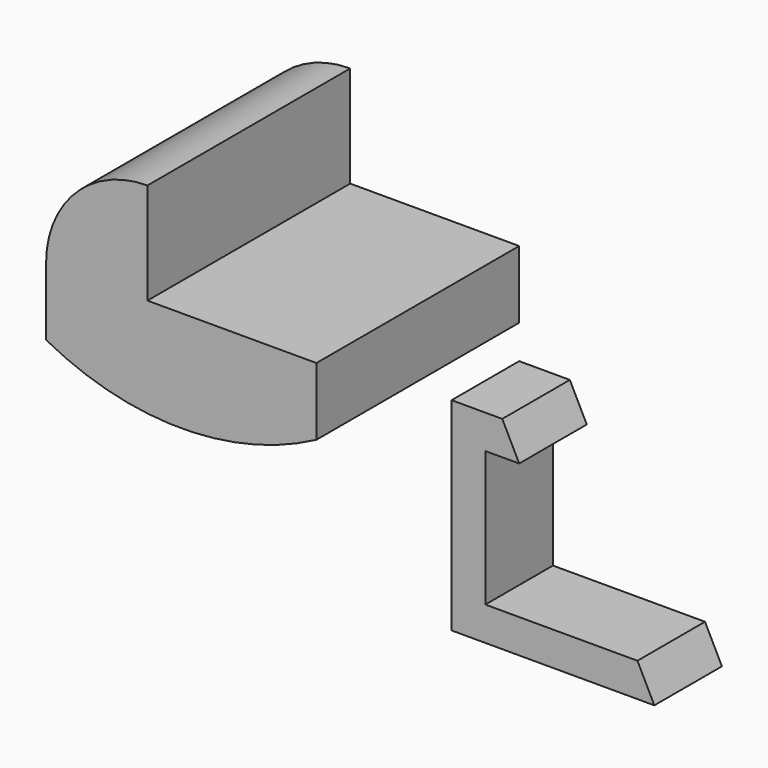
from build123d import *

# Parameters (mm, degrees)
F2_DEPTH = 50
F3_DEPTH = 25
F4_DEPTH = 25


with BuildPart() as f2:
    # F1 (on Front) → F2 (new body)
    with BuildSketch(Plane.XZ):
        with BuildLine():
            Line((0, 30), (-50, 30))
            Line((-50, 30), (-50, 60))
            ThreePointArc((-50, 60), (-71.213203, 51.213203), (-80, 30))
            Line((-80, 30), (-80, 10))
            ThreePointArc((-80, 10), (-40, 0), (0, 10))
            Line((0, 10), (0, 30))
        make_face()
    extrude(amount=F2_DEPTH)

    # F2_face (on face) → F4 (join)
    with BuildSketch(Plane(origin=(-45.644437, -50, 22.98515), x_dir=(1, 0, 0), z_dir=(0, -1, 0))):
        with BuildLine():
            Line((45.644437, -12.98515), (45.644437, 7.01485))
            Line((45.644437, 7.01485), (-4.355563, 7.01485))
            Line((-4.355563, 7.01485), (-4.355563, 37.01485))
            ThreePointArc((-4.355563, 37.01485), (-25.568766, 28.228053), (-34.355563, 7.01485))
            Line((-34.355563, 7.01485), (-34.355563, -12.98515))
            ThreePointArc((-34.355563, -12.98515), (5.644437, -22.98515), (45.644437, -12.98515))
        make_face()
    extrude(amount=F4_DEPTH)


with BuildPart() as f3:
    # F0 (on Front) → F3 (new body)
    with BuildSketch(Plane.XZ):
        Polygon((15, 0), (0, 0), (0, -60), (60, -60), (55, -50), (10, -50), (10, -10), (20, -10), align=None)
    extrude(amount=F3_DEPTH)


solid = Compound([f2.part, f3.part])
